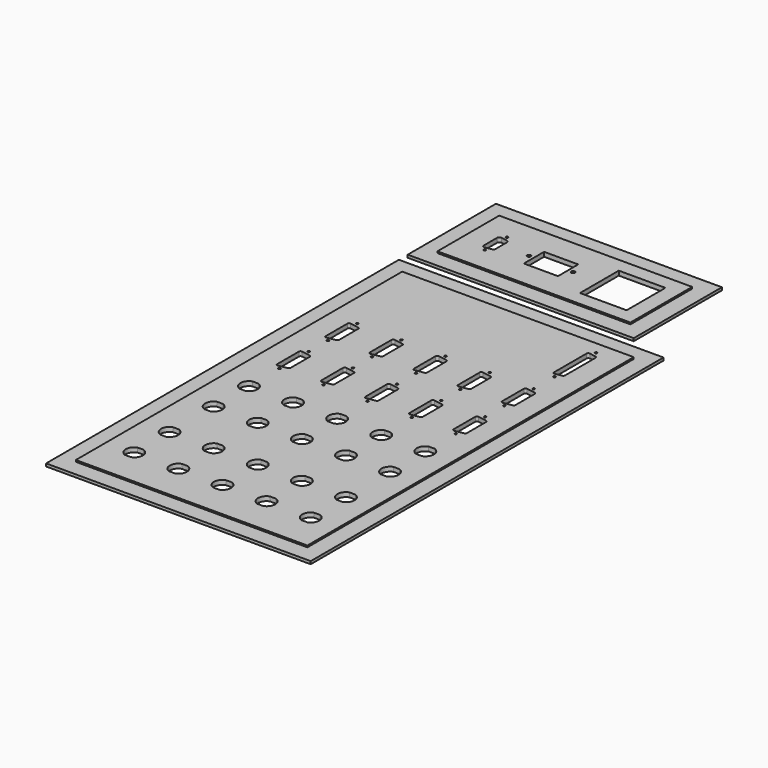
from build123d import *

# Parameters (mm, degrees)
F0_W     = 240
F0_H     = 400
F0_R     = 1
F1_DEPTH = 4
F2_W     = 240
F2_H     = 400
F2_W_2   = 210
F2_H_2   = 370
F3_DEPTH = 1.5
F4_W     = 205
F4_H     = 100
F4_R     = 1
F4_R_2   = 1.65
F4_W_2   = 31
F4_H_2   = 23
F4_W_3   = 42.3
F4_H_3   = 44
F5_DEPTH = 4
F6_W     = 205
F6_H     = 100
F6_W_2   = 175
F6_H_2   = 70
F7_DEPTH = 1.5


with BuildPart() as f1:
    # F0 (on Top) → F1 (new body)
    with BuildSketch(Plane.XY):
        Rectangle(F0_W, F0_H)
        with BuildLine():
            ThreePointArc((-77.261387, -142.75), (-72.25, -150), (-77.261387, -157.25))
            Line((-77.261387, -157.25), (-82.738613, -157.25))
            ThreePointArc((-82.738613, -157.25), (-87.75, -150), (-82.738613, -142.75))
            Line((-82.738613, -142.75), (-77.261387, -142.75))
        make_face(mode=Mode.SUBTRACT)
        with BuildLine():
            ThreePointArc((-82.738613, -117.25), (-87.75, -110), (-82.738613, -102.75))
            Line((-82.738613, -102.75), (-77.261387, -102.75))
            ThreePointArc((-77.261387, -102.75), (-72.25, -110), (-77.261387, -117.25))
            Line((-77.261387, -117.25), (-82.738613, -117.25))
        make_face(mode=Mode.SUBTRACT)
        with BuildLine():
            ThreePointArc((-37.261387, -142.75), (-32.25, -150), (-37.261387, -157.25))
            Line((-37.261387, -157.25), (-42.738613, -157.25))
            ThreePointArc((-42.738613, -157.25), (-47.75, -150), (-42.738613, -142.75))
            Line((-42.738613, -142.75), (-37.261387, -142.75))
        make_face(mode=Mode.SUBTRACT)
        with BuildLine():
            ThreePointArc((-37.261387, -102.75), (-32.25, -110), (-37.261387, -117.25))
            Line((-37.261387, -117.25), (-42.738613, -117.25))
            ThreePointArc((-42.738613, -117.25), (-47.75, -110), (-42.738613, -102.75))
            Line((-42.738613, -102.75), (-37.261387, -102.75))
        make_face(mode=Mode.SUBTRACT)
        with BuildLine():
            ThreePointArc((-77.261387, -52.75), (-72.25, -60), (-77.261387, -67.25))
            Line((-77.261387, -67.25), (-82.738613, -67.25))
            ThreePointArc((-82.738613, -67.25), (-87.75, -60), (-82.738613, -52.75))
            Line((-82.738613, -52.75), (-77.261387, -52.75))
        make_face(mode=Mode.SUBTRACT)
        with BuildLine():
            ThreePointArc((-82.738613, -27.25), (-87.75, -20), (-82.738613, -12.75))
            Line((-82.738613, -12.75), (-77.261387, -12.75))
            ThreePointArc((-77.261387, -12.75), (-72.25, -20), (-77.261387, -27.25))
            Line((-77.261387, -27.25), (-82.738613, -27.25))
        make_face(mode=Mode.SUBTRACT)
        with BuildLine():
            ThreePointArc((-37.261387, -52.75), (-32.25, -60), (-37.261387, -67.25))
            Line((-37.261387, -67.25), (-42.738613, -67.25))
            ThreePointArc((-42.738613, -67.25), (-47.75, -60), (-42.738613, -52.75))
            Line((-42.738613, -52.75), (-37.261387, -52.75))
        make_face(mode=Mode.SUBTRACT)
        with BuildLine():
            ThreePointArc((-37.261387, -12.75), (-32.25, -20), (-37.261387, -27.25))
            Line((-37.261387, -27.25), (-42.738613, -27.25))
            ThreePointArc((-42.738613, -27.25), (-47.75, -20), (-42.738613, -12.75))
            Line((-42.738613, -12.75), (-37.261387, -12.75))
        make_face(mode=Mode.SUBTRACT)
        with BuildLine():
            ThreePointArc((2.738613, -142.75), (7.75, -150), (2.738613, -157.25))
            Line((2.738613, -157.25), (-2.738613, -157.25))
            ThreePointArc((-2.738613, -157.25), (-7.75, -150), (-2.738613, -142.75))
            Line((-2.738613, -142.75), (2.738613, -142.75))
        make_face(mode=Mode.SUBTRACT)
        with BuildLine():
            ThreePointArc((2.738613, -102.75), (7.75, -110), (2.738613, -117.25))
            Line((2.738613, -117.25), (-2.738613, -117.25))
            ThreePointArc((-2.738613, -117.25), (-7.75, -110), (-2.738613, -102.75))
            Line((-2.738613, -102.75), (2.738613, -102.75))
        make_face(mode=Mode.SUBTRACT)
        with BuildLine():
            ThreePointArc((42.738613, -142.75), (47.75, -150), (42.738613, -157.25))
            Line((42.738613, -157.25), (37.261387, -157.25))
            ThreePointArc((37.261387, -157.25), (32.25, -150), (37.261387, -142.75))
            Line((37.261387, -142.75), (42.738613, -142.75))
        make_face(mode=Mode.SUBTRACT)
        with BuildLine():
            ThreePointArc((42.738613, -102.75), (47.75, -110), (42.738613, -117.25))
            Line((42.738613, -117.25), (37.261387, -117.25))
            ThreePointArc((37.261387, -117.25), (32.25, -110), (37.261387, -102.75))
            Line((37.261387, -102.75), (42.738613, -102.75))
        make_face(mode=Mode.SUBTRACT)
        with BuildLine():
            ThreePointArc((82.738613, -142.75), (87.75, -150), (82.738613, -157.25))
            Line((82.738613, -157.25), (77.261387, -157.25))
            ThreePointArc((77.261387, -157.25), (72.25, -150), (77.261387, -142.75))
            Line((77.261387, -142.75), (82.738613, -142.75))
        make_face(mode=Mode.SUBTRACT)
        with BuildLine():
            ThreePointArc((82.738613, -102.75), (87.75, -110), (82.738613, -117.25))
            Line((82.738613, -117.25), (77.261387, -117.25))
            ThreePointArc((77.261387, -117.25), (72.25, -110), (77.261387, -102.75))
            Line((77.261387, -102.75), (82.738613, -102.75))
        make_face(mode=Mode.SUBTRACT)
        with BuildLine():
            ThreePointArc((2.738613, -52.75), (7.75, -60), (2.738613, -67.25))
            Line((2.738613, -67.25), (-2.738613, -67.25))
            ThreePointArc((-2.738613, -67.25), (-7.75, -60), (-2.738613, -52.75))
            Line((-2.738613, -52.75), (2.738613, -52.75))
        make_face(mode=Mode.SUBTRACT)
        with BuildLine():
            ThreePointArc((42.738613, -52.75), (47.75, -60), (42.738613, -67.25))
            Line((42.738613, -67.25), (37.261387, -67.25))
            ThreePointArc((37.261387, -67.25), (32.25, -60), (37.261387, -52.75))
            Line((37.261387, -52.75), (42.738613, -52.75))
        make_face(mode=Mode.SUBTRACT)
        with BuildLine():
            ThreePointArc((2.738613, -12.75), (7.75, -20), (2.738613, -27.25))
            Line((2.738613, -27.25), (-2.738613, -27.25))
            ThreePointArc((-2.738613, -27.25), (-7.75, -20), (-2.738613, -12.75))
            Line((-2.738613, -12.75), (2.738613, -12.75))
        make_face(mode=Mode.SUBTRACT)
        with BuildLine():
            ThreePointArc((42.738613, -12.75), (47.75, -20), (42.738613, -27.25))
            Line((42.738613, -27.25), (37.261387, -27.25))
            ThreePointArc((37.261387, -27.25), (32.25, -20), (37.261387, -12.75))
            Line((37.261387, -12.75), (42.738613, -12.75))
        make_face(mode=Mode.SUBTRACT)
        with BuildLine():
            ThreePointArc((82.738613, -52.75), (87.75, -60), (82.738613, -67.25))
            Line((82.738613, -67.25), (77.261387, -67.25))
            ThreePointArc((77.261387, -67.25), (72.25, -60), (77.261387, -52.75))
            Line((77.261387, -52.75), (82.738613, -52.75))
        make_face(mode=Mode.SUBTRACT)
        with BuildLine():
            ThreePointArc((82.738613, -12.75), (87.75, -20), (82.738613, -27.25))
            Line((82.738613, -27.25), (77.261387, -27.25))
            ThreePointArc((77.261387, -27.25), (72.25, -20), (77.261387, -12.75))
            Line((77.261387, -12.75), (82.738613, -12.75))
        make_face(mode=Mode.SUBTRACT)
        with Locations((-80, 14.54)):
            Circle(F0_R, mode=Mode.SUBTRACT)
        with BuildLine():
            ThreePointArc((-75.739528, 43.589384), (-74.850933, 43.076354), (-74.5, 42.112173))
            Line((-74.5, 42.112173), (-74.5, 20.287827))
            ThreePointArc((-74.5, 20.287827), (-74.850933, 19.323646), (-75.739528, 18.810616))
            Line((-75.739528, 18.810616), (-83.739528, 17.4))
            ThreePointArc((-83.739528, 17.4), (-84.964181, 17.728145), (-85.5, 18.877212))
            Line((-85.5, 18.877212), (-85.5, 43.522788))
            ThreePointArc((-85.5, 43.522788), (-84.964181, 44.671855), (-83.739528, 45))
            Line((-83.739528, 45), (-75.739528, 43.589384))
        make_face(mode=Mode.SUBTRACT)
        with Locations((-80, 47.86)):
            Circle(F0_R, mode=Mode.SUBTRACT)
        with Locations((-80, 69.54)):
            Circle(F0_R, mode=Mode.SUBTRACT)
        with BuildLine():
            ThreePointArc((-85.5, 98.522788), (-84.964181, 99.671855), (-83.739528, 100))
            Line((-83.739528, 100), (-75.739528, 98.589384))
            ThreePointArc((-75.739528, 98.589384), (-74.850933, 98.076354), (-74.5, 97.112173))
            Line((-74.5, 97.112173), (-74.5, 75.287827))
            ThreePointArc((-74.5, 75.287827), (-74.850933, 74.323646), (-75.739528, 73.810616))
            Line((-75.739528, 73.810616), (-83.739528, 72.4))
            ThreePointArc((-83.739528, 72.4), (-84.964181, 72.728145), (-85.5, 73.877212))
            Line((-85.5, 73.877212), (-85.5, 98.522788))
        make_face(mode=Mode.SUBTRACT)
        with Locations((-40, 14.54)):
            Circle(F0_R, mode=Mode.SUBTRACT)
        with BuildLine():
            ThreePointArc((-35.739528, 43.589384), (-34.850933, 43.076354), (-34.5, 42.112173))
            Line((-34.5, 42.112173), (-34.5, 20.287827))
            ThreePointArc((-34.5, 20.287827), (-34.850933, 19.323646), (-35.739528, 18.810616))
            Line((-35.739528, 18.810616), (-43.739528, 17.4))
            ThreePointArc((-43.739528, 17.4), (-44.964181, 17.728145), (-45.5, 18.877212))
            Line((-45.5, 18.877212), (-45.5, 43.522788))
            ThreePointArc((-45.5, 43.522788), (-44.964181, 44.671855), (-43.739528, 45))
            Line((-43.739528, 45), (-35.739528, 43.589384))
        make_face(mode=Mode.SUBTRACT)
        with Locations((-40, 47.86)):
            Circle(F0_R, mode=Mode.SUBTRACT)
        with Locations((-40, 69.54)):
            Circle(F0_R, mode=Mode.SUBTRACT)
        with BuildLine():
            ThreePointArc((-35.739528, 98.589384), (-34.850933, 98.076354), (-34.5, 97.112173))
            Line((-34.5, 97.112173), (-34.5, 75.287827))
            ThreePointArc((-34.5, 75.287827), (-34.850933, 74.323646), (-35.739528, 73.810616))
            Line((-35.739528, 73.810616), (-43.739528, 72.4))
            ThreePointArc((-43.739528, 72.4), (-44.964181, 72.728145), (-45.5, 73.877212))
            Line((-45.5, 73.877212), (-45.5, 98.522788))
            ThreePointArc((-45.5, 98.522788), (-44.964181, 99.671855), (-43.739528, 100))
            Line((-43.739528, 100), (-35.739528, 98.589384))
        make_face(mode=Mode.SUBTRACT)
        with Locations((-80, 102.86)):
            Circle(F0_R, mode=Mode.SUBTRACT)
        with Locations((-40, 102.86)):
            Circle(F0_R, mode=Mode.SUBTRACT)
        with Locations((0, 14.54)):
            Circle(F0_R, mode=Mode.SUBTRACT)
        with BuildLine():
            ThreePointArc((4.260472, 43.589384), (5.149067, 43.076354), (5.5, 42.112173))
            Line((5.5, 42.112173), (5.5, 20.287827))
            ThreePointArc((5.5, 20.287827), (5.149067, 19.323646), (4.260472, 18.810616))
            Line((4.260472, 18.810616), (-3.739528, 17.4))
            ThreePointArc((-3.739528, 17.4), (-4.964181, 17.728145), (-5.5, 18.877212))
            Line((-5.5, 18.877212), (-5.5, 43.522788))
            ThreePointArc((-5.5, 43.522788), (-4.964181, 44.671855), (-3.739528, 45))
            Line((-3.739528, 45), (4.260472, 43.589384))
        make_face(mode=Mode.SUBTRACT)
        with Locations((0, 47.86)):
            Circle(F0_R, mode=Mode.SUBTRACT)
        with Locations((40, 14.54)):
            Circle(F0_R, mode=Mode.SUBTRACT)
        with BuildLine():
            ThreePointArc((44.260472, 43.589384), (45.149067, 43.076354), (45.5, 42.112173))
            Line((45.5, 42.112173), (45.5, 20.287827))
            ThreePointArc((45.5, 20.287827), (45.149067, 19.323646), (44.260472, 18.810616))
            Line((44.260472, 18.810616), (36.260472, 17.4))
            ThreePointArc((36.260472, 17.4), (35.035819, 17.728145), (34.5, 18.877212))
            Line((34.5, 18.877212), (34.5, 43.522788))
            ThreePointArc((34.5, 43.522788), (35.035819, 44.671855), (36.260472, 45))
            Line((36.260472, 45), (44.260472, 43.589384))
        make_face(mode=Mode.SUBTRACT)
        with Locations((40, 47.86)):
            Circle(F0_R, mode=Mode.SUBTRACT)
        with Locations((0, 69.54)):
            Circle(F0_R, mode=Mode.SUBTRACT)
        with BuildLine():
            ThreePointArc((4.260472, 98.589384), (5.149067, 98.076354), (5.5, 97.112173))
            Line((5.5, 97.112173), (5.5, 75.287827))
            ThreePointArc((5.5, 75.287827), (5.149067, 74.323646), (4.260472, 73.810616))
            Line((4.260472, 73.810616), (-3.739528, 72.4))
            ThreePointArc((-3.739528, 72.4), (-4.964181, 72.728145), (-5.5, 73.877212))
            Line((-5.5, 73.877212), (-5.5, 98.522788))
            ThreePointArc((-5.5, 98.522788), (-4.964181, 99.671855), (-3.739528, 100))
            Line((-3.739528, 100), (4.260472, 98.589384))
        make_face(mode=Mode.SUBTRACT)
        with Locations((40, 69.54)):
            Circle(F0_R, mode=Mode.SUBTRACT)
        with BuildLine():
            ThreePointArc((44.260472, 98.589384), (45.149067, 98.076354), (45.5, 97.112173))
            Line((45.5, 97.112173), (45.5, 75.287827))
            ThreePointArc((45.5, 75.287827), (45.149067, 74.323646), (44.260472, 73.810616))
            Line((44.260472, 73.810616), (36.260472, 72.4))
            ThreePointArc((36.260472, 72.4), (35.035819, 72.728145), (34.5, 73.877212))
            Line((34.5, 73.877212), (34.5, 98.522788))
            ThreePointArc((34.5, 98.522788), (35.035819, 99.671855), (36.260472, 100))
            Line((36.260472, 100), (44.260472, 98.589384))
        make_face(mode=Mode.SUBTRACT)
        with Locations((80, 14.54)):
            Circle(F0_R, mode=Mode.SUBTRACT)
        with BuildLine():
            ThreePointArc((84.260472, 43.589384), (85.149067, 43.076354), (85.5, 42.112173))
            Line((85.5, 42.112173), (85.5, 20.287827))
            ThreePointArc((85.5, 20.287827), (85.149067, 19.323646), (84.260472, 18.810616))
            Line((84.260472, 18.810616), (76.260472, 17.4))
            ThreePointArc((76.260472, 17.4), (75.035819, 17.728145), (74.5, 18.877212))
            Line((74.5, 18.877212), (74.5, 43.522788))
            ThreePointArc((74.5, 43.522788), (75.035819, 44.671855), (76.260472, 45))
            Line((76.260472, 45), (84.260472, 43.589384))
        make_face(mode=Mode.SUBTRACT)
        with Locations((80, 47.86)):
            Circle(F0_R, mode=Mode.SUBTRACT)
        with Locations((80, 69.54)):
            Circle(F0_R, mode=Mode.SUBTRACT)
        with BuildLine():
            ThreePointArc((84.260472, 98.589384), (85.149067, 98.076354), (85.5, 97.112173))
            Line((85.5, 97.112173), (85.5, 75.287827))
            ThreePointArc((85.5, 75.287827), (85.149067, 74.323646), (84.260472, 73.810616))
            Line((84.260472, 73.810616), (76.260472, 72.4))
            ThreePointArc((76.260472, 72.4), (75.035819, 72.728145), (74.5, 73.877212))
            Line((74.5, 73.877212), (74.5, 98.522788))
            ThreePointArc((74.5, 98.522788), (75.035819, 99.671855), (76.260472, 100))
            Line((76.260472, 100), (84.260472, 98.589384))
        make_face(mode=Mode.SUBTRACT)
        with Locations((0, 102.86)):
            Circle(F0_R, mode=Mode.SUBTRACT)
        with Locations((40, 102.86)):
            Circle(F0_R, mode=Mode.SUBTRACT)
        with Locations((80, 102.86)):
            Circle(F0_R, mode=Mode.SUBTRACT)
        with Locations((80, 126.48)):
            Circle(F0_R, mode=Mode.SUBTRACT)
        with BuildLine():
            ThreePointArc((75.45, 168.472788), (75.985819, 169.621855), (77.210472, 169.95))
            Line((77.210472, 169.95), (83.310472, 168.874405))
            ThreePointArc((83.310472, 168.874405), (84.199067, 168.361375), (84.55, 167.397194))
            Line((84.55, 167.397194), (84.55, 132.602806))
            ThreePointArc((84.55, 132.602806), (84.199067, 131.638625), (83.310472, 131.125595))
            Line((83.310472, 131.125595), (77.210472, 130.05))
            ThreePointArc((77.210472, 130.05), (75.985819, 130.378145), (75.45, 131.527212))
            Line((75.45, 131.527212), (75.45, 168.472788))
        make_face(mode=Mode.SUBTRACT)
        with Locations((80, 173.52)):
            Circle(F0_R, mode=Mode.SUBTRACT)
    extrude(amount=F1_DEPTH)

    # F2 (on face) → F3 (cut)
    with BuildSketch(Plane.XY.offset(4)):
        Rectangle(F2_W, F2_H)
        Rectangle(F2_W_2, F2_H_2, mode=Mode.SUBTRACT)
    extrude(amount=-F3_DEPTH, mode=Mode.SUBTRACT)


with BuildPart() as f5:
    # F4 (on Top) → F5 (new body)
    with BuildSketch(Plane.XY):
        with Locations((-17.5, 260)):
            Rectangle(F4_W, F4_H)
        with Locations((-80, 247.5)):
            Circle(F4_R, mode=Mode.SUBTRACT)
        with BuildLine():
            Line((-84.925, 252.469616), (-84.925, 267.530384))
            ThreePointArc((-84.925, 267.530384), (-84.210575, 269.062473), (-82.577704, 269.5))
            Line((-82.577704, 269.5), (-76.727704, 268.468487))
            ThreePointArc((-76.727704, 268.468487), (-75.542911, 267.784447), (-75.075, 266.498872))
            Line((-75.075, 266.498872), (-75.075, 253.501128))
            ThreePointArc((-75.075, 253.501128), (-75.542911, 252.215553), (-76.727704, 251.531513))
            Line((-76.727704, 251.531513), (-82.577704, 250.5))
            ThreePointArc((-82.577704, 250.5), (-84.210575, 250.937527), (-84.925, 252.469616))
        make_face(mode=Mode.SUBTRACT)
        with Locations((-80, 272.5)):
            Circle(F4_R, mode=Mode.SUBTRACT)
        with Locations((-50, 260)):
            Circle(F4_R_2, mode=Mode.SUBTRACT)
        with Locations((-30, 260)):
            Rectangle(F4_W_2, F4_H_2, mode=Mode.SUBTRACT)
        with Locations((-10, 260)):
            Circle(F4_R_2, mode=Mode.SUBTRACT)
        with Locations((35, 260)):
            Rectangle(F4_W_3, F4_H_3, mode=Mode.SUBTRACT)
    extrude(amount=F5_DEPTH)

    # F6 (on face) → F7 (cut)
    with BuildSketch(Plane.XY.offset(4)):
        with Locations((-17.5, 260)):
            Rectangle(F6_W, F6_H)
        with Locations((-17.5, 260)):
            Rectangle(F6_W_2, F6_H_2, mode=Mode.SUBTRACT)
    extrude(amount=-F7_DEPTH, mode=Mode.SUBTRACT)


solid = Compound([f1.part, f5.part])
